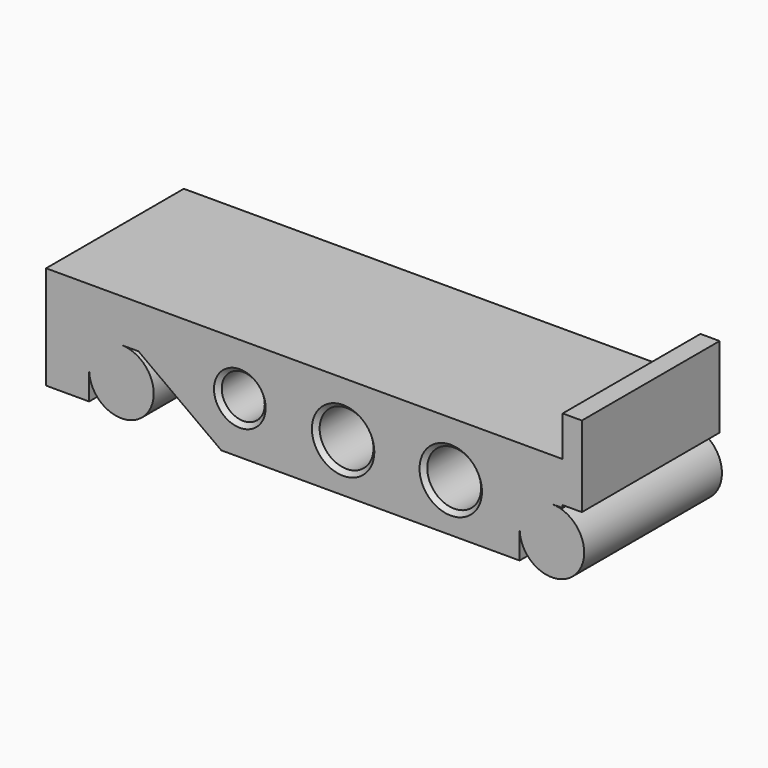
from build123d import *

# Parameters (mm, degrees)
F0_R          = 6.35
F0_R_2        = 7.9375
F1_DEPTH      = 25.4
F1_DEPTH_BACK = 25.4
F2_SIZE       = 1.27


with BuildPart() as f1:
    # F0 (on Front) → F1 (new body, two sides)
    with BuildSketch(Plane.XZ) as f1_sk:
        Polygon((152.4, 30.48), (0, 30.48), (0, 0), (12.7, 0), (12.7, 8.255), (12.7, 17.78), (22.225, 17.78), (27.2542, 17.78), (51.689, 0), (139.7, 0), (139.7, 8.255), (139.7, 17.78), (149.225, 17.78), (152.4, 17.78), (152.4, 18.542), align=None)
        with Locations((57.15, 15.24)):
            Circle(F0_R, mode=Mode.SUBTRACT)
        with Locations((87.63, 14.2748)):
            Circle(F0_R_2, mode=Mode.SUBTRACT)
        with Locations((119.38, 14.2748)):
            Circle(F0_R_2, mode=Mode.SUBTRACT)
        Polygon((152.4, 42.3418), (152.4, 30.48), (152.4, 18.542), (158.0642, 18.542), (158.0642, 42.3418), align=None)
        with BuildLine():
            Line((12.7, 17.78), (12.7, 8.255))
            ThreePointArc((12.7, 8.255), (15.4898079092, 14.9901920908), (22.225, 17.78))
            Line((22.225, 17.78), (12.7, 17.78))
        make_face()
        with BuildLine():
            ThreePointArc((22.225, 17.78), (15.4898079092, 14.9901920908), (12.7, 8.255))
            ThreePointArc((12.7, 8.255), (22.225, -1.27), (31.75, 8.255))
            ThreePointArc((31.75, 8.255), (28.9601920908, 14.9901920908), (22.225, 17.78))
        make_face()
        with BuildLine():
            ThreePointArc((139.7, 8.255), (142.4898079092, 14.9901920908), (149.225, 17.78))
            Line((149.225, 17.78), (139.7, 17.78))
            Line((139.7, 17.78), (139.7, 8.255))
        make_face()
        with BuildLine():
            ThreePointArc((158.75, 8.255), (155.9601920908, 14.9901920908), (149.225, 17.78))
            ThreePointArc((149.225, 17.78), (142.4898079092, 14.9901920908), (139.7, 8.255))
            ThreePointArc((139.7, 8.255), (149.225, -1.27), (158.75, 8.255))
        make_face()
    extrude(amount=F1_DEPTH)
    extrude(f1_sk.sketch, amount=-F1_DEPTH_BACK)

    # F2
    f2_edges = [f1.edges().sort_by_distance(p)[0] for p in [
        (50.8, -25.4, 15.24),
        (79.6925, -25.4, 14.2748),
        (111.4425, -25.4, 14.2748),
        (111.4425, 25.4, 14.2748),
        (79.6925, 25.4, 14.2748),
        (50.8, 25.4, 15.24),
    ]]
    chamfer(f2_edges, length=F2_SIZE)


solid = f1.part
